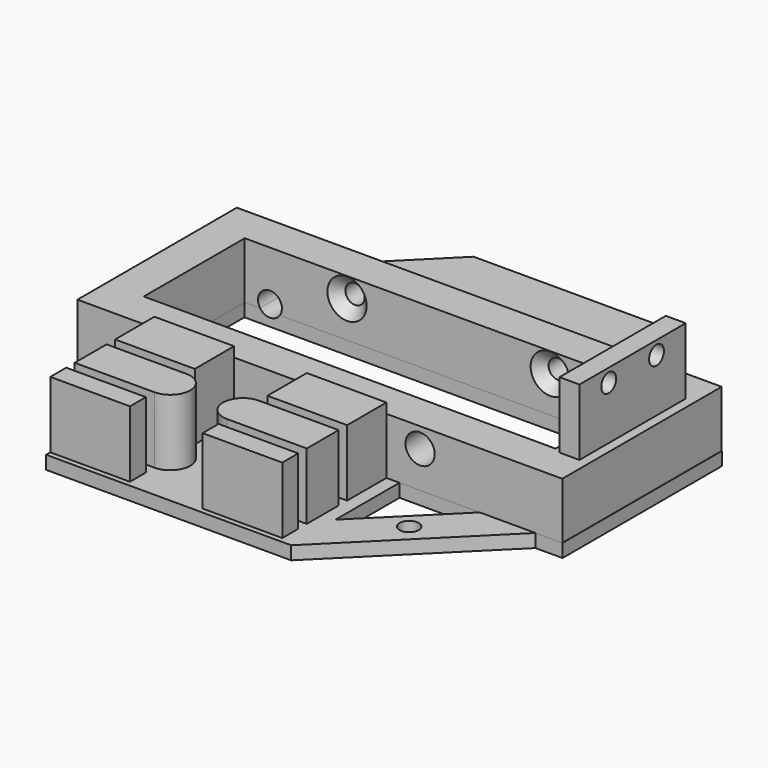
from build123d import *

# Parameters (mm, degrees)
SKETCH002_W     = 12
SKETCH002_H     = 7.4
SKETCH002_H_2   = 3
PAD002_DEPTH    = 10
SKETCH_R        = 1.45
SKETCH_W        = 62
SKETCH_H        = 19
PAD_DEPTH       = 2
SKETCH004_R     = 1.8
POCKET005_DEPTH = 50
SKETCH001_W     = 73
SKETCH001_H     = 30
SKETCH001_W_2   = 62
SKETCH001_H_2   = 19
PAD004_DEPTH    = 8.5
SKETCH003_R     = 1.45
SKETCH003_R_2   = 1.8
POCKET004_DEPTH = 50
SKETCH005_R     = 2.2
POCKET_DEPTH    = 5.5
CHAMFER_SIZE    = 1.5
SKETCH006_W     = 3
SKETCH006_H     = 20
PAD005_DEPTH    = 10
SKETCH007_R     = 1.4
POCKET006_DEPTH = 5


with BuildPart() as pad002:
    # Sketch002 → Pad002 (new body)
    with BuildSketch(Plane.XY.offset(2)):
        with BuildLine():
            Line((-22, -24), (-10, -24))
            ThreePointArc((-10, -30), (-7, -27), (-10, -24))
            Line((-10, -30), (-22, -30))
            Line((-22, -30), (-22, -24))
        make_face()
        with Locations((-16, -18.7)):
            Rectangle(SKETCH002_W, SKETCH002_H)
        with Locations((6.936471, -18.7)):
            Rectangle(SKETCH002_W, SKETCH002_H)
        with BuildLine():
            ThreePointArc((0.936471, -24), (-2.063529, -27), (0.936471, -30))
            Line((12.936471, -30), (0.936471, -30))
            Line((12.936471, -24), (12.936471, -30))
            Line((0.936471, -24), (12.936471, -24))
        make_face()
        with Locations((-16, -33.1)):
            Rectangle(SKETCH002_W, SKETCH002_H_2)
        with Locations((6.936471, -33.1)):
            Rectangle(SKETCH002_W, SKETCH002_H_2)
    extrude(amount=PAD002_DEPTH)


with BuildPart() as pocket005:
    # Sketch → Pad (new body)
    with BuildSketch(Plane.XY):
        Polygon((-33.55, 16.0884), (-14.25, 35.3884), (14.898722, 35.3884), (35.37564, 15), (39.45, 15), (39.45, -15), (35.37564, -15), (14.89872, -35.3884), (-22, -35.3884), (-22, -15), (-33.55, -15), align=None)
        with Locations((-22.75, 23)):
            Circle(SKETCH_R, mode=Mode.SUBTRACT)
        with Locations((22.75, 23)):
            Circle(SKETCH_R, mode=Mode.SUBTRACT)
        with Locations((22.75, -23)):
            Circle(SKETCH_R, mode=Mode.SUBTRACT)
        with Locations((2.95, 0)):
            Rectangle(SKETCH_W, SKETCH_H, mode=Mode.SUBTRACT)
        Polygon((-14.202042, 26.795792), (-26.212802, 14.999997), (-14.202042, 14.999997), align=None, mode=Mode.SUBTRACT)
        Polygon((27.024401, 15), (14.898758, 27.073226), (14.898758, 15), align=None, mode=Mode.SUBTRACT)
        Polygon((14.898758, -27.037122), (26.998465, -14.989721), (14.898758, -14.989721), align=None, mode=Mode.SUBTRACT)
    extrude(amount=PAD_DEPTH)

    # Sketch004 → Pocket005 (cut)
    with BuildSketch(Plane(origin=(0, 15, 0), x_dir=(-1, 0, 0), z_dir=(0, 1, 0))):
        with Locations((24.2, 3)):
            Circle(SKETCH004_R)
    extrude(amount=-POCKET005_DEPTH, mode=Mode.SUBTRACT)


with BuildPart() as pocket006:
    # Sketch001 → Pad004 (new body)
    with BuildSketch(Plane.XY.offset(2)):
        with Locations((2.91, 0)):
            Rectangle(SKETCH001_W, SKETCH001_H)
        with Locations((3, 0)):
            Rectangle(SKETCH001_W_2, SKETCH001_H_2, mode=Mode.SUBTRACT)
    extrude(amount=PAD004_DEPTH)

    # Sketch003 → Pocket004 (cut)
    with BuildSketch(Plane(origin=(0, 15, 2), x_dir=(-1, 0, 0), z_dir=(0, 1, 0))):
        with Locations((-18, 5.5)):
            Circle(SKETCH003_R)
        with Locations((12.6, 5.5)):
            Circle(SKETCH003_R)
        with Locations((24.2, 1)):
            Circle(SKETCH003_R_2)
    extrude(amount=-POCKET004_DEPTH, mode=Mode.SUBTRACT)

    # Sketch005 → Pocket (cut)
    with BuildSketch(Plane(origin=(0, -15, 2), x_dir=(1, 0, 0), z_dir=(0, -1, 0))):
        with Locations((18, 5.5)):
            Circle(SKETCH005_R)
    extrude(amount=-POCKET_DEPTH, mode=Mode.SUBTRACT)

    # Chamfer
    chamfer_edges = [pocket006.edges().sort_by_distance(p)[0] for p in [
        (19.45, 9.5, 7.5),
        (-11.15, 9.5, 7.5),
    ]]
    chamfer(chamfer_edges, length=CHAMFER_SIZE)

    # Sketch006 → Pad005 (new body)
    with BuildSketch(Plane.XY.offset(10.5)):
        with Locations((36.5, 0)):
            Rectangle(SKETCH006_W, SKETCH006_H)
    extrude(amount=PAD005_DEPTH)

    # Sketch007 → Pocket006 (cut)
    with BuildSketch(Plane(origin=(38, 0, 2), x_dir=(0, 1, 0), z_dir=(1, 0, 0))):
        with Locations((-4.5, 16.5)):
            Circle(SKETCH007_R)
        with Locations((4.5, 16.5)):
            Circle(SKETCH007_R)
    extrude(amount=-POCKET006_DEPTH, mode=Mode.SUBTRACT)


solid = Compound([pad002.part, pocket005.part, pocket006.part])
